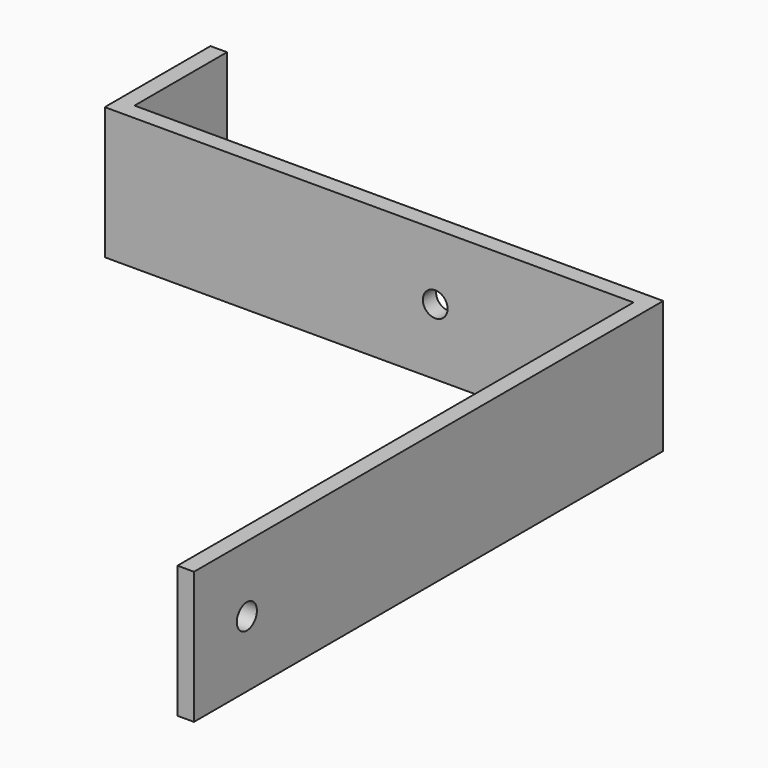
from build123d import *

# Parameters (mm, degrees)
F1_DEPTH = 25.4
F2_R     = 4.7625
F3_DEPTH = 50.801
F4_R     = 4.826
F5_DEPTH = 209.551


with BuildPart() as f1:
    # F0 (on Top) → F1 (new body, symmetric)
    with BuildSketch(Plane.XY):
        Polygon((-6.35, 219.075), (-6.35, 0), (0, 0), (0, 225.425), (-203.2, 225.425), (-203.2, 269.875), (-209.55, 269.875), (-209.55, 219.075), align=None)
    extrude(amount=F1_DEPTH, both=True)

    # F2 (on face) → F3 (cut, through all)
    with BuildSketch(Plane.XZ.offset(-219.075)):
        with Locations((-82.55, 0)):
            Circle(F2_R)
    extrude(amount=-F3_DEPTH, mode=Mode.SUBTRACT)

    # F4 (on face) → F5 (cut, through all)
    with BuildSketch(Plane.YZ):
        with Locations((25.4, 0)):
            Circle(F4_R)
    extrude(amount=-F5_DEPTH, mode=Mode.SUBTRACT)


solid = f1.part
